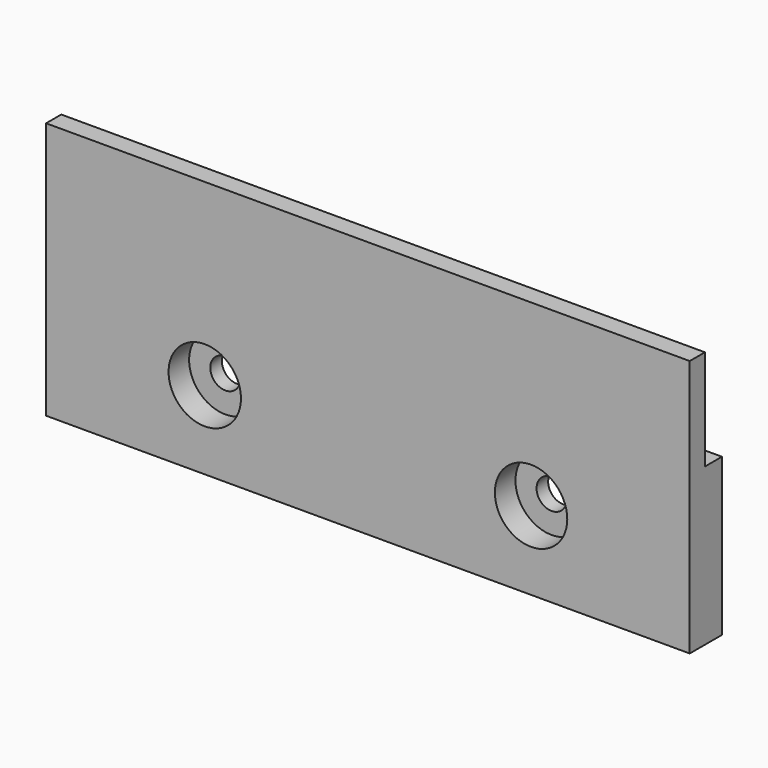
from build123d import *

# Parameters (mm, degrees)
F1_DEPTH = 101.6
F2_R     = 2.38125
F3_DEPTH = 6.35
F4_R     = 5.715
F5_DEPTH = 4.064


with BuildPart() as f1:
    # F0 (on Right) → F1 (new body)
    with BuildSketch(Plane.YZ):
        Polygon((0, -31.19104), (0, -15.31604), (-2.9972, -15.31604), (-2.9972, -55.95604), (3.3528, -55.95604), (3.3528, -31.19104), align=None)
    extrude(amount=F1_DEPTH)

    # F2 (on face) → F3 (cut, through all)
    with BuildSketch(Plane(origin=(0, 3.3528, 0), x_dir=(-1, 0, 0), z_dir=(0, 1, 0))):
        with Locations((-76.552249, -43.57354)):
            Circle(F2_R)
        with Locations((-25.047751, -43.57354)):
            Circle(F2_R)
    extrude(amount=-F3_DEPTH, mode=Mode.SUBTRACT)

    # F4 (on face) → F5 (cut)
    with BuildSketch(Plane.XZ.offset(2.9972)):
        with Locations((25.047751, -43.57354)):
            Circle(F4_R)
        with Locations((76.552249, -43.57354)):
            Circle(F4_R)
    extrude(amount=-F5_DEPTH, mode=Mode.SUBTRACT)


solid = f1.part
